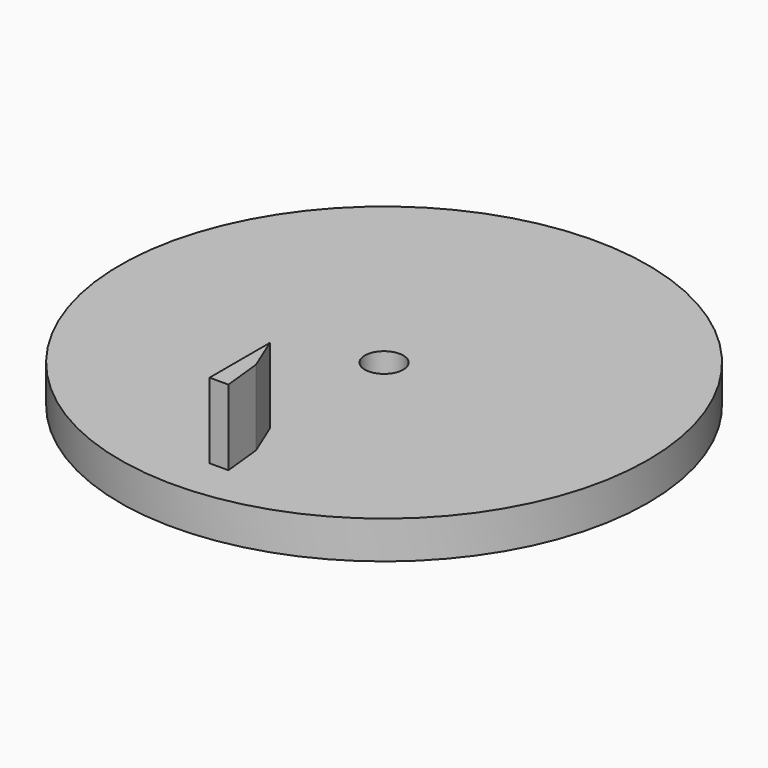
from build123d import *

# Parameters (mm, degrees)
F0_R     = 35
F0_R_2   = 2.55
F1_DEPTH = 5
F3_DEPTH = 10


with BuildPart() as f1:
    # F0 (on Top) → F1 (new body)
    with BuildSketch(Plane.XY):
        Circle(F0_R)
        Circle(F0_R_2, mode=Mode.SUBTRACT)
    extrude(amount=F1_DEPTH)

    # F2 (on face) → F3 (join)
    with BuildSketch(Plane.XY.offset(5)):
        Polygon((1.943101, -23.666137), (0, -18.927574), (0, -28.927574), (2.5, -28.927574), align=None)
    extrude(amount=F3_DEPTH)


solid = f1.part
